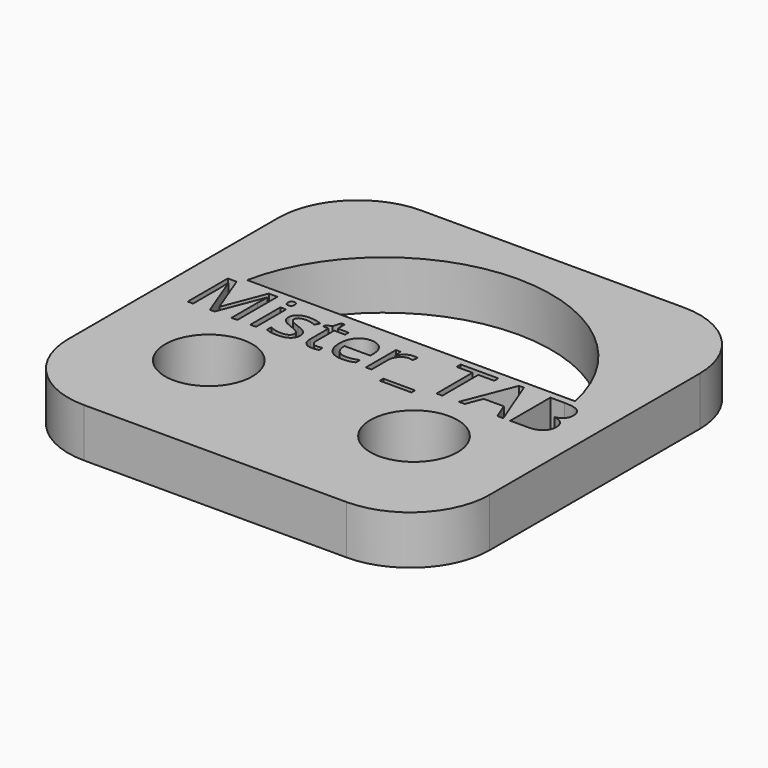
from build123d import *

# Parameters (mm, degrees)
F0_W     = 0.5409147758
F0_H     = 3.5696206301
F0_R     = 4.1410048869
F0_W_2   = 3.0161991543
F0_H_2   = 0.4262700256
F1_DEPTH = 4.63


with BuildPart() as f1:
    # F0 (on Top) → F1 (new body)
    with BuildSketch(Plane.XY):
        with BuildLine():
            Line((-12.46, -20), (12.46, -20))
            ThreePointArc((12.46, -20), (17.7915851301, -17.7915851301), (20, -12.46))
            Line((20, -12.46), (20, 12.46))
            ThreePointArc((20, 12.46), (17.7915851301, 17.7915851301), (12.46, 20))
            Line((12.46, 20), (-12.46, 20))
            ThreePointArc((-12.46, 20), (-17.7915851301, 17.7915851301), (-20, 12.46))
            Line((-20, 12.46), (-20, -12.46))
            ThreePointArc((-20, -12.46), (-17.7915851301, -17.7915851301), (-12.46, -20))
        make_face()
        with Locations((-10.6343428027, -0.4498275188)):
            Rectangle(F0_W, F0_H, mode=Mode.SUBTRACT)
        with Locations((-9.7391884774, -8.6168935522)):
            Circle(F0_R, mode=Mode.SUBTRACT)
        with BuildLine():
            add(Edge.make_bspline(
                [(-7.1381990352, -0.6713003317), (-6.9151628849, -0.905800957), (-6.9151628849, -1.2611996825)],
                knots=[0, 0, 0, 1, 1, 1], degree=2))
            add(Edge.make_bspline(
                [(-6.9151628849, -1.2611996825), (-6.9151628849, -1.7593832332), (-7.2861949854, -2.0298406211)],
                knots=[0, 0, 0, 1, 1, 1], degree=2))
            add(Edge.make_bspline(
                [(-7.2861949854, -2.0298406211), (-7.6572270859, -2.300298009), (-8.3284199869, -2.300298009)],
                knots=[0, 0, 0, 1, 1, 1], degree=2))
            add(Edge.make_bspline(
                [(-8.3284199869, -2.300298009), (-9.0381752129, -2.300298009), (-9.4352629385, -2.0751774087)],
                knots=[0, 0, 0, 1, 1, 1], degree=2))
            Line((-9.4352629385, -2.0751774087), (-9.4352629385, -1.5738671829))
            add(Edge.make_bspline(
                [(-9.4352629385, -1.5738671829), (-9.1778333631, -1.7041453081), (-8.8834048002, -1.7786643957)],
                knots=[0, 0, 0, 1, 1, 1], degree=2))
            add(Edge.make_bspline(
                [(-8.8834048002, -1.7786643957), (-8.5889762373, -1.8531834833), (-8.3148710619, -1.8531834833)],
                knots=[0, 0, 0, 1, 1, 1], degree=2))
            add(Edge.make_bspline(
                [(-8.3148710619, -1.8531834833), (-7.8917277113, -1.8531834833), (-7.6640015484, -1.7182153457)],
                knots=[0, 0, 0, 1, 1, 1], degree=2))
            add(Edge.make_bspline(
                [(-7.6640015484, -1.7182153457), (-7.4362753856, -1.583247208), (-7.4362753856, -1.3060153576)],
                knots=[0, 0, 0, 1, 1, 1], degree=2))
            add(Edge.make_bspline(
                [(-7.4362753856, -1.3060153576), (-7.4362753856, -1.0975703573), (-7.6165803109, -0.9495744071)],
                knots=[0, 0, 0, 1, 1, 1], degree=2))
            add(Edge.make_bspline(
                [(-7.6165803109, -0.9495744071), (-7.7968852361, -0.8015784568), (-8.3221666369, -0.5993868066)],
                knots=[0, 0, 0, 1, 1, 1], degree=2))
            add(Edge.make_bspline(
                [(-8.3221666369, -0.5993868066), (-8.8203501876, -0.4138707563), (-9.0303585254, -0.2752548311)],
                knots=[0, 0, 0, 1, 1, 1], degree=2))
            add(Edge.make_bspline(
                [(-9.0303585254, -0.2752548311), (-9.2403668632, -0.1366389059), (-9.3430260258, 0.0389760069)],
                knots=[0, 0, 0, 1, 1, 1], degree=2))
            add(Edge.make_bspline(
                [(-9.3430260258, 0.0389760069), (-9.4456851885, 0.2145909196), (-9.4456851885, 0.45847157)],
                knots=[0, 0, 0, 1, 1, 1], degree=2))
            add(Edge.make_bspline(
                [(-9.4456851885, 0.45847157), (-9.4456851885, 0.8951638456), (-9.090286463, 1.1479034084)],
                knots=[0, 0, 0, 1, 1, 1], degree=2))
            add(Edge.make_bspline(
                [(-9.090286463, 1.1479034084), (-8.7348877375, 1.4006429713), (-8.1168483116, 1.4006429713)],
                knots=[0, 0, 0, 1, 1, 1], degree=2))
            add(Edge.make_bspline(
                [(-8.1168483116, 1.4006429713), (-7.5404978858, 1.4006429713), (-6.98916086, 1.166142346)],
                knots=[0, 0, 0, 1, 1, 1], degree=2))
            Line((-6.98916086, 1.166142346), (-7.1819724853, 0.7263233953))
            add(Edge.make_bspline(
                [(-7.1819724853, 0.7263233953), (-7.718718361, 0.9472750957), (-8.1554106367, 0.9472750957)],
                knots=[0, 0, 0, 1, 1, 1], degree=2))
            add(Edge.make_bspline(
                [(-8.1554106367, 0.9472750957), (-8.5399916622, 0.9472750957), (-8.73540885, 0.826898108)],
                knots=[0, 0, 0, 1, 1, 1], degree=2))
            add(Edge.make_bspline(
                [(-8.73540885, 0.826898108), (-8.9308260378, 0.7065211203), (-8.9308260378, 0.494949445)],
                knots=[0, 0, 0, 1, 1, 1], degree=2))
            add(Edge.make_bspline(
                [(-8.9308260378, 0.494949445), (-8.9308260378, 0.3511223948), (-8.8573491752, 0.2505476822)],
                knots=[0, 0, 0, 1, 1, 1], degree=2))
            add(Edge.make_bspline(
                [(-8.8573491752, 0.2505476822), (-8.7838723125, 0.1499729695), (-8.6212852123, 0.0587782819)],
                knots=[0, 0, 0, 1, 1, 1], degree=2))
            add(Edge.make_bspline(
                [(-8.6212852123, 0.0587782819), (-8.4586981121, -0.0324164057), (-7.9959502114, -0.205425756)],
                knots=[0, 0, 0, 1, 1, 1], degree=2))
            add(Edge.make_bspline(
                [(-7.9959502114, -0.205425756), (-7.3612351855, -0.4367997063), (-7.1381990352, -0.6713003317)],
                knots=[0, 0, 0, 1, 1, 1], degree=2))
        make_face(mode=Mode.SUBTRACT)
        with BuildLine():
            add(Edge.make_bspline(
                [(-5.3028408076, -1.6806952456), (-5.1496337324, -1.8531834833), (-4.882824132, -1.8531834833)],
                knots=[0, 0, 0, 1, 1, 1], degree=2))
            add(Edge.make_bspline(
                [(-4.882824132, -1.8531834833), (-4.7389970818, -1.8531834833), (-4.6055922816, -1.8323389833)],
                knots=[0, 0, 0, 1, 1, 1], degree=2))
            add(Edge.make_bspline(
                [(-4.6055922816, -1.8323389833), (-4.4721874814, -1.8114944833), (-4.3940206063, -1.7885655333)],
                knots=[0, 0, 0, 1, 1, 1], degree=2))
            Line((-4.3940206063, -1.7885655333), (-4.3940206063, -2.2023288588))
            add(Edge.make_bspline(
                [(-4.3940206063, -2.2023288588), (-4.4815675064, -2.2440178589), (-4.6524924066, -2.2721579339)],
                knots=[0, 0, 0, 1, 1, 1], degree=2))
            add(Edge.make_bspline(
                [(-4.6524924066, -2.2721579339), (-4.8234173069, -2.300298009), (-4.9609910071, -2.300298009)],
                knots=[0, 0, 0, 1, 1, 1], degree=2))
            add(Edge.make_bspline(
                [(-4.9609910071, -2.300298009), (-5.9959204336, -2.300298009), (-5.9959204336, -1.2090884324)],
                knots=[0, 0, 0, 1, 1, 1], degree=2))
            Line((-5.9959204336, -1.2090884324), (-5.9959204336, 0.9149661206))
            Line((-5.9959204336, 0.9149661206), (-6.5076529093, 0.9149661206))
            Line((-6.5076529093, 0.9149661206), (-6.5076529093, 1.175522371))
            Line((-6.5076529093, 1.175522371), (-5.9959204336, 1.4006429713))
            Line((-5.9959204336, 1.4006429713), (-5.7687153832, 2.1625094474))
            Line((-5.7687153832, 2.1625094474), (-5.4560478828, 2.1625094474))
            Line((-5.4560478828, 2.1625094474), (-5.4560478828, 1.3349827962))
            Line((-5.4560478828, 1.3349827962), (-4.4200762313, 1.3349827962))
            Line((-4.4200762313, 1.3349827962), (-4.4200762313, 0.9149661206))
            Line((-4.4200762313, 0.9149661206), (-5.4560478828, 0.9149661206))
            Line((-5.4560478828, 0.9149661206), (-5.4560478828, -1.1861594824))
            add(Edge.make_bspline(
                [(-5.4560478828, -1.1861594824), (-5.4560478828, -1.5082070079), (-5.3028408076, -1.6806952456)],
                knots=[0, 0, 0, 1, 1, 1], degree=2))
        make_face(mode=Mode.SUBTRACT)
        with BuildLine():
            add(Edge.make_bspline(
                [(-1.5560419272, -2.2461023089), (-1.8113870526, -2.300298009), (-2.1730391281, -2.300298009)],
                knots=[0, 0, 0, 1, 1, 1], degree=2))
            add(Edge.make_bspline(
                [(-2.1730391281, -2.300298009), (-2.9640879042, -2.300298009), (-3.4221457924, -1.8177478333)],
                knots=[0, 0, 0, 1, 1, 1], degree=2))
            add(Edge.make_bspline(
                [(-3.4221457924, -1.8177478333), (-3.8802036805, -1.3351976576), (-3.8802036805, -0.4795309314)],
                knots=[0, 0, 0, 1, 1, 1], degree=2))
            add(Edge.make_bspline(
                [(-3.8802036805, -0.4795309314), (-3.8802036805, 0.3844735949), (-3.4549758799, 0.8925582831)],
                knots=[0, 0, 0, 1, 1, 1], degree=2))
            add(Edge.make_bspline(
                [(-3.4549758799, 0.8925582831), (-3.0297480793, 1.4006429713), (-2.3126972783, 1.4006429713)],
                knots=[0, 0, 0, 1, 1, 1], degree=2))
            add(Edge.make_bspline(
                [(-2.3126972783, 1.4006429713), (-1.6425466023, 1.4006429713), (-1.2517122268, 0.9592606832)],
                knots=[0, 0, 0, 1, 1, 1], degree=2))
            add(Edge.make_bspline(
                [(-1.2517122268, 0.9592606832), (-0.8608778512, 0.517878395), (-0.8608778512, -0.205425756)],
                knots=[0, 0, 0, 1, 1, 1], degree=2))
            Line((-0.8608778512, -0.205425756), (-0.8608778512, -0.5472755565))
            Line((-0.8608778512, -0.5472755565), (-3.3194866297, -0.5472755565))
            add(Edge.make_bspline(
                [(-3.3194866297, -0.5472755565), (-3.3028110297, -1.1757372324), (-3.0016080043, -1.5014325453)],
                knots=[0, 0, 0, 1, 1, 1], degree=2))
            add(Edge.make_bspline(
                [(-3.0016080043, -1.5014325453), (-2.7004049789, -1.8271278583), (-2.1532368531, -1.8271278583)],
                knots=[0, 0, 0, 1, 1, 1], degree=2))
            add(Edge.make_bspline(
                [(-2.1532368531, -1.8271278583), (-1.5768864273, -1.8271278583), (-1.0140849264, -1.586373883)],
                knots=[0, 0, 0, 1, 1, 1], degree=2))
            Line((-1.0140849264, -1.586373883), (-1.0140849264, -2.0689240587))
            add(Edge.make_bspline(
                [(-1.0140849264, -2.0689240587), (-1.3006968019, -2.1919066088), (-1.5560419272, -2.2461023089)],
                knots=[0, 0, 0, 1, 1, 1], degree=2))
        make_face(mode=Mode.SUBTRACT)
        with Locations((9.7391884774, -8.6168935522)):
            Circle(F0_R, mode=Mode.SUBTRACT)
        with Locations((3.7061521053, -3.0470522226)):
            Rectangle(F0_W_2, F0_H_2, mode=Mode.SUBTRACT)
        with BuildLine():
            add(Edge.make_bspline(
                [(1.0745339765, 1.2114791335), (1.3548925019, 1.4006429713), (1.6904889524, 1.4006429713)],
                knots=[0, 0, 0, 1, 1, 1], degree=2))
            add(Edge.make_bspline(
                [(1.6904889524, 1.4006429713), (1.9281162528, 1.4006429713), (2.116758978, 1.3610384212)],
                knots=[0, 0, 0, 1, 1, 1], degree=2))
            Line((2.116758978, 1.3610384212), (2.0417187779, 0.8597281955))
            add(Edge.make_bspline(
                [(2.0417187779, 0.8597281955), (1.8207670776, 0.9087127706), (1.6508844024, 0.9087127706)],
                knots=[0, 0, 0, 1, 1, 1], degree=2))
            add(Edge.make_bspline(
                [(1.6508844024, 0.9087127706), (1.2173188017, 0.9087127706), (0.9098624263, 0.5569618326)],
                knots=[0, 0, 0, 1, 1, 1], degree=2))
            add(Edge.make_bspline(
                [(0.9098624263, 0.5569618326), (0.6024060509, 0.2052108946), (0.6024060509, -0.3190282812)],
                knots=[0, 0, 0, 1, 1, 1], degree=2))
            Line((0.6024060509, -0.3190282812), (0.6024060509, -2.2346378339))
            Line((0.6024060509, -2.2346378339), (0.0614912751, -2.2346378339))
            Line((0.0614912751, -2.2346378339), (0.0614912751, 1.3349827962))
            Line((0.0614912751, 1.3349827962), (0.5075635757, 1.3349827962))
            Line((0.5075635757, 1.3349827962), (0.5700970758, 0.6742121453))
            Line((0.5700970758, 0.6742121453), (0.5961527009, 0.6742121453))
            add(Edge.make_bspline(
                [(0.5961527009, 0.6742121453), (0.7941754511, 1.0223152958), (1.0745339765, 1.2114791335)],
                knots=[0, 0, 0, 1, 1, 1], degree=2))
        make_face(mode=Mode.SUBTRACT)
        with BuildLine():
            Line((-14.2920314454, -2.2346378339), (-14.7381037461, -2.2346378339))
            Line((-14.7381037461, -2.2346378339), (-16.3535524984, 1.9863734221))
            Line((-16.3535524984, 1.9863734221), (-16.3796081234, 1.9863734221))
            add(Edge.make_bspline(
                [(-16.3796081234, 1.9863734221), (-16.3337502233, 1.4850631964), (-16.3337502233, 0.7940680204)],
                knots=[0, 0, 0, 1, 1, 1], degree=2))
            Line((-16.3337502233, 0.7940680204), (-16.3337502233, -2.2346378339))
            Line((-16.3337502233, -2.2346378339), (-16.8454826991, -2.2346378339))
            Line((-16.8454826991, -2.2346378339), (-16.8454826991, 2.5272881979))
            Line((-16.8454826991, 2.5272881979), (-16.0117026979, 2.5272881979))
            Line((-16.0117026979, 2.5272881979), (-14.5036031207, -1.4008578327))
            Line((-14.5036031207, -1.4008578327), (-14.4775474957, -1.4008578327))
            Line((-14.4775474957, -1.4008578327), (-12.9569412185, 2.5272881979))
            Line((-12.9569412185, 2.5272881979), (-12.1294145673, 2.5272881979))
            Line((-12.1294145673, 2.5272881979), (-12.1294145673, -2.2346378339))
            Line((-12.1294145673, -2.2346378339), (-12.6828360431, -2.2346378339))
            Line((-12.6828360431, -2.2346378339), (-12.6828360431, 0.8336725705))
            add(Edge.make_bspline(
                [(-12.6828360431, 0.8336725705), (-12.6828360431, 1.3610384212), (-12.6369781431, 1.9801200721)],
                knots=[0, 0, 0, 1, 1, 1], degree=2))
            Line((-12.6369781431, 1.9801200721), (-12.6630337681, 1.9801200721))
            Line((-12.6630337681, 1.9801200721), (-14.2920314454, -2.2346378339))
        make_face(mode=Mode.SUBTRACT)
        with BuildLine():
            add(Edge.make_bspline(
                [(-10.859463403, 2.0301468722), (-10.9506580906, 2.1197782223), (-10.9506580906, 2.3021675976)],
                knots=[0, 0, 0, 1, 1, 1], degree=2))
            add(Edge.make_bspline(
                [(-10.9506580906, 2.3021675976), (-10.9506580906, 2.4876836479), (-10.859463403, 2.574188323)],
                knots=[0, 0, 0, 1, 1, 1], degree=2))
            add(Edge.make_bspline(
                [(-10.859463403, 2.574188323), (-10.7682687154, 2.6606929981), (-10.6306950152, 2.6606929981)],
                knots=[0, 0, 0, 1, 1, 1], degree=2))
            add(Edge.make_bspline(
                [(-10.6306950152, 2.6606929981), (-10.50041689, 2.6606929981), (-10.4060955274, 2.5726249855)],
                knots=[0, 0, 0, 1, 1, 1], degree=2))
            add(Edge.make_bspline(
                [(-10.4060955274, 2.5726249855), (-10.3117741647, 2.4845569729), (-10.3117741647, 2.3021675976)],
                knots=[0, 0, 0, 1, 1, 1], degree=2))
            add(Edge.make_bspline(
                [(-10.3117741647, 2.3021675976), (-10.3117741647, 2.1197782223), (-10.4060955274, 2.0301468722)],
                knots=[0, 0, 0, 1, 1, 1], degree=2))
            add(Edge.make_bspline(
                [(-10.4060955274, 2.0301468722), (-10.50041689, 1.9405155221), (-10.6306950152, 1.9405155221)],
                knots=[0, 0, 0, 1, 1, 1], degree=2))
            add(Edge.make_bspline(
                [(-10.6306950152, 1.9405155221), (-10.7682687154, 1.9405155221), (-10.859463403, 2.0301468722)],
                knots=[0, 0, 0, 1, 1, 1], degree=2))
        make_face(mode=Mode.SUBTRACT)
        Polygon((7.3216306355, 2.0353579972), (7.3216306355, -2.2346378339), (6.7682091597, -2.2346378339), (6.7682091597, 2.0353579972), (5.2601095825, 2.0353579972), (5.2601095825, 2.5272881979), (8.8297302126, 2.5272881979), (8.8297302126, 2.0353579972), align=None, mode=Mode.SUBTRACT)
        with BuildLine():
            ThreePointArc((-15.5638626479, 3.2150025945), (0, 15.8924529952), (15.5638626479, 3.2150025945))
            Line((15.5638626479, 3.2150025945), (-15.5638626479, 3.2150025945))
        make_face(mode=Mode.SUBTRACT)
        Polygon((13.1132749687, -2.2346378339), (12.5400512179, -2.2346378339), (11.9470251921, -0.7202849067), (10.0387112143, -0.7202849067), (9.4529807635, -2.2346378339), (8.8922637127, -2.2346378339), (10.7745220654, 2.5470904729), (11.2403966411, 2.5470904729), align=None, mode=Mode.SUBTRACT)
        with BuildLine():
            Line((13.7677922697, -2.2346378339), (13.7677922697, 2.5272881979))
            Line((13.7677922697, 2.5272881979), (15.1133047466, 2.5272881979))
            add(Edge.make_bspline(
                [(15.1133047466, 2.5272881979), (16.0606872729, 2.5272881979), (16.484351736, 2.2438029975)],
                knots=[0, 0, 0, 1, 1, 1], degree=2))
            add(Edge.make_bspline(
                [(16.484351736, 2.2438029975), (16.9080161992, 1.9603177971), (16.9080161992, 1.3485317212)],
                knots=[0, 0, 0, 1, 1, 1], degree=2))
            add(Edge.make_bspline(
                [(16.9080161992, 1.3485317212), (16.9080161992, 0.9243461456), (16.6719522363, 0.6491987452)],
                knots=[0, 0, 0, 1, 1, 1], degree=2))
            add(Edge.make_bspline(
                [(16.6719522363, 0.6491987452), (16.4358882735, 0.3740513448), (15.9825203978, 0.2927577947)],
                knots=[0, 0, 0, 1, 1, 1], degree=2))
            Line((15.9825203978, 0.2927577947), (15.9825203978, 0.2604488197))
            add(Edge.make_bspline(
                [(15.9825203978, 0.2604488197), (17.0674766244, 0.0749327694), (17.0674766244, -0.879745332)],
                knots=[0, 0, 0, 1, 1, 1], degree=2))
            add(Edge.make_bspline(
                [(17.0674766244, -0.879745332), (17.0674766244, -1.5175870329), (16.6359954738, -1.8761124334)],
                knots=[0, 0, 0, 1, 1, 1], degree=2))
            add(Edge.make_bspline(
                [(16.6359954738, -1.8761124334), (16.2045143231, -2.2346378339), (15.429098922, -2.2346378339)],
                knots=[0, 0, 0, 1, 1, 1], degree=2))
            Line((15.429098922, -2.2346378339), (13.7677922697, -2.2346378339))
        make_face(mode=Mode.SUBTRACT)
    extrude(amount=F1_DEPTH)


solid = f1.part
